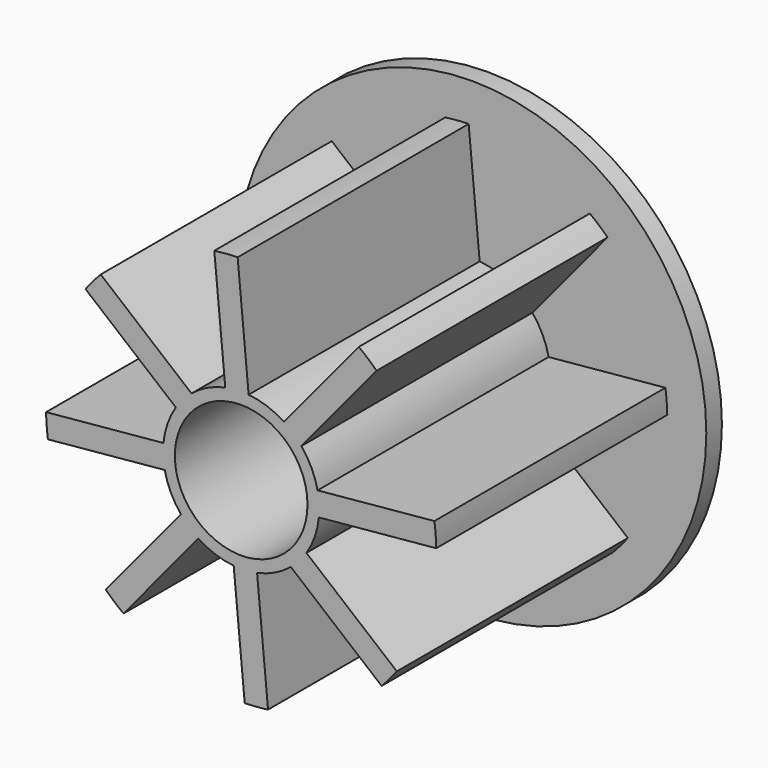
from build123d import *

# Parameters (mm, degrees)
F0_R     = 30
F0_R_2   = 8.5
F1_DEPTH = 2.5
F3_DEPTH = 37
F4_DEPTH = 40


with BuildPart() as f1:
    # F0 (on Front) → F1 (new body)
    with BuildSketch(Plane.XZ):
        Circle(F0_R)
        Circle(F0_R_2, mode=Mode.SUBTRACT)
    extrude(amount=-F1_DEPTH)

    # F2 (on Front) → F3 (join)
    with BuildSketch(Plane.XZ):
        with BuildLine():
            ThreePointArc((9.9539621754, -0.9584555339), (9.9884839128, -0.4797802861), (10, 0))
            ThreePointArc((10, 0), (9.9474412154, 1.0239205366), (9.790317347, 2.0370778693))
            ThreePointArc((9.790317347, 2.0370778693), (9.0162927853, 4.3250970404), (7.7162445614, 6.3607837464))
            ThreePointArc((7.7162445614, 6.3607837464), (6.6748253827, 7.4462545021), (5.4823682108, 8.3632313612))
            ThreePointArc((5.4823682108, 8.3632313612), (3.3171763231, 9.4337872163), (0.9584555339, 9.9539621754))
            ThreePointArc((0.9584555339, 9.9539621754), (-0.5454827615, 9.9851113442), (-2.0370778693, 9.790317347))
            ThreePointArc((-2.0370778693, 9.790317347), (-4.3250970404, 9.0162927853), (-6.3607837464, 7.7162445614))
            ThreePointArc((-6.3607837464, 7.7162445614), (-7.4462545021, 6.6748253827), (-8.3632313612, 5.4823682108))
            ThreePointArc((-8.3632313612, 5.4823682108), (-9.4337872163, 3.3171763231), (-9.9539621754, 0.9584555339))
            ThreePointArc((-9.9539621754, 0.9584555339), (-9.9851113442, -0.5454827615), (-9.790317347, -2.0370778693))
            ThreePointArc((-9.790317347, -2.0370778693), (-9.0162927853, -4.3250970404), (-7.7162445614, -6.3607837464))
            ThreePointArc((-7.7162445614, -6.3607837464), (-6.6748253827, -7.4462545021), (-5.4823682108, -8.3632313612))
            ThreePointArc((-5.4823682108, -8.3632313612), (-3.3171763231, -9.4337872163), (-0.9584555339, -9.9539621754))
            ThreePointArc((-0.9584555339, -9.9539621754), (0.5454827615, -9.9851113442), (2.0370778693, -9.790317347))
            ThreePointArc((2.0370778693, -9.790317347), (4.3250970404, -9.0162927853), (6.3607837464, -7.7162445614))
            ThreePointArc((6.3607837464, -7.7162445614), (7.4462545021, -6.6748253827), (8.3632313612, -5.4823682108))
            ThreePointArc((8.3632313612, -5.4823682108), (9.4337872163, -3.3171763231), (9.9539621754, -0.9584555339))
        make_face()
        with BuildLine():
            ThreePointArc((-8.3632313612, 5.4823682108), (-7.4462545021, 6.6748253827), (-6.3607837464, 7.7162445614))
            Line((-6.3607837464, 7.7162445614), (-17.9943087682, 17.355254304))
            ThreePointArc((-17.9943087682, 17.355254304), (-19.0032050673, 16.2443281539), (-19.9436281467, 15.0748696959))
            Line((-19.9436281467, 15.0748696959), (-8.3632313612, 5.4823682108))
        make_face()
        with BuildLine():
            Line((-15.0748696959, -19.9436281467), (-5.4823682108, -8.3632313612))
            ThreePointArc((-5.4823682108, -8.3632313612), (-6.6748253827, -7.4462545021), (-7.7162445614, -6.3607837464))
            Line((-7.7162445614, -6.3607837464), (-17.355254304, -17.9943087682))
            ThreePointArc((-17.355254304, -17.9943087682), (-16.2443281539, -19.0032050673), (-15.0748696959, -19.9436281467))
        make_face()
        with BuildLine():
            Line((3.4427321165, -24.7618172914), (2.0370778693, -9.790317347))
            ThreePointArc((2.0370778693, -9.790317347), (0.5454827615, -9.9851113442), (-0.9584555339, -9.9539621754))
            Line((-0.9584555339, -9.9539621754), (0.4518797452, -24.9959157603))
            ThreePointArc((0.4518797452, -24.9959157603), (1.9508205739, -24.9237697608), (3.4427321165, -24.7618172914))
        make_face()
        with BuildLine():
            Line((19.9436281467, -15.0748696959), (8.3632313612, -5.4823682108))
            ThreePointArc((8.3632313612, -5.4823682108), (7.4462545021, -6.6748253827), (6.3607837464, -7.7162445614))
            Line((6.3607837464, -7.7162445614), (17.9943087682, -17.355254304))
            ThreePointArc((17.9943087682, -17.355254304), (19.0032050673, -16.2443281539), (19.9436281467, -15.0748696959))
        make_face()
        with BuildLine():
            ThreePointArc((9.790317347, 2.0370778693), (9.9474412154, 1.0239205366), (10, 0))
            ThreePointArc((10, 0), (9.9884839128, -0.4797802861), (9.9539621754, -0.9584555339))
            Line((9.9539621754, -0.9584555339), (24.9959157603, 0.4518797452))
            ThreePointArc((24.9959157603, 0.4518797452), (24.9237697608, 1.9508205739), (24.7618172914, 3.4427321165))
            Line((24.7618172914, 3.4427321165), (9.790317347, 2.0370778693))
        make_face()
        with BuildLine():
            ThreePointArc((5.4823682108, 8.3632313612), (6.6748253827, 7.4462545021), (7.7162445614, 6.3607837464))
            Line((7.7162445614, 6.3607837464), (17.355254304, 17.9943087682))
            ThreePointArc((17.355254304, 17.9943087682), (16.2443281539, 19.0032050673), (15.0748696959, 19.9436281467))
            Line((15.0748696959, 19.9436281467), (5.4823682108, 8.3632313612))
        make_face()
        with BuildLine():
            ThreePointArc((-2.0370778693, 9.790317347), (-0.5454827615, 9.9851113442), (0.9584555339, 9.9539621754))
            Line((0.9584555339, 9.9539621754), (-0.4518797452, 24.9959157603))
            ThreePointArc((-0.4518797452, 24.9959157603), (-1.9508205739, 24.9237697608), (-3.4427321165, 24.7618172914))
            Line((-3.4427321165, 24.7618172914), (-2.0370778693, 9.790317347))
        make_face()
        with BuildLine():
            ThreePointArc((-9.790317347, -2.0370778693), (-9.9851113442, -0.5454827615), (-9.9539621754, 0.9584555339))
            Line((-9.9539621754, 0.9584555339), (-24.9959157603, -0.4518797452))
            ThreePointArc((-24.9959157603, -0.4518797452), (-24.9237697608, -1.9508205739), (-24.7618172914, -3.4427321165))
            Line((-24.7618172914, -3.4427321165), (-9.790317347, -2.0370778693))
        make_face()
    extrude(amount=F3_DEPTH)

    # F4 (cut): a face of the model
    f4_faces = [f1.faces().sort_by_distance(p)[0] for p in [
        (0, 0, 0),
    ]]
    extrude(f4_faces, amount=-F4_DEPTH, mode=Mode.SUBTRACT)


solid = f1.part
